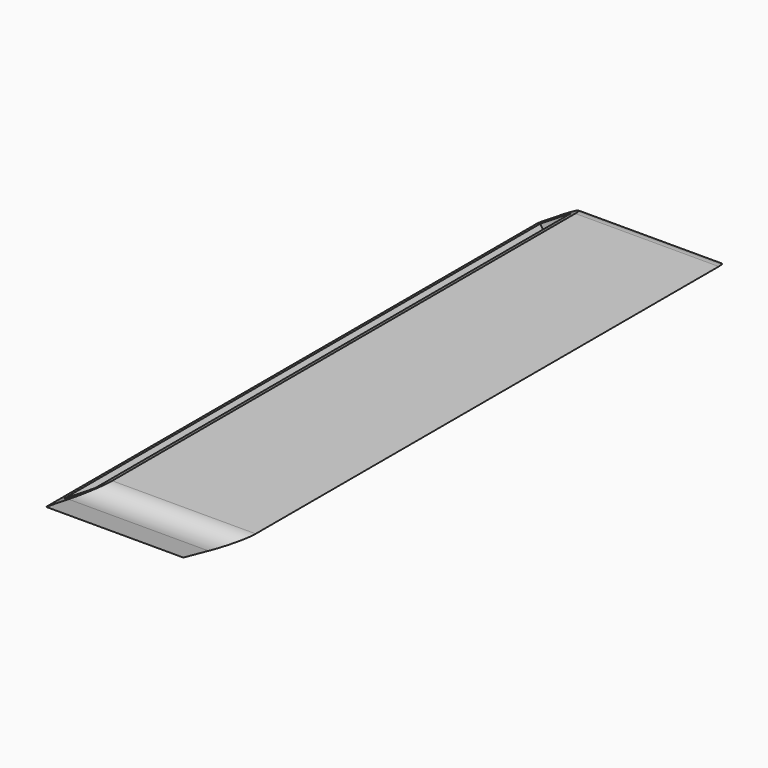
from build123d import *

# Parameters (mm, degrees)
F1_DEPTH = 89.507969
F4_DEPTH = 81.994342
F2_W     = 10.276273
F2_H     = 43.34471
F2_H_2   = 36.187086
F2_H_3   = 36.76717
F2_H_4   = 49.747541
F5_DEPTH = 25.4
F3_R     = 5.08
F6_R     = 5.08


with BuildPart() as f1:
    # F0 (on Front) → F1 (new body)
    with BuildSketch(Plane.XZ):
        Polygon((-8.287296, 9.003021), (-22.663645, 0), (15.585691, 0), (31.694472, 9.003021), align=None)
    extrude(amount=F1_DEPTH)

    # F1_face (on face) → F4 (join)
    with BuildSketch(Plane(origin=(4.138563, 0, 4.534739), x_dir=(1, 0, 0), z_dir=(0, 1, 0))):
        Polygon((-26.802209, 4.534739), (-12.425859, -4.468282), (27.555909, -4.468282), (11.447127, 4.534739), align=None)
    extrude(amount=F4_DEPTH)

    # F2 (on face) → F5 (cut)
    with BuildSketch(Plane(origin=(-6.384331, 0, 10.19473), x_dir=(0.847526, 0, 0.530753), z_dir=(-0.530753, 0, 0.847526))):
        with Locations((-11.1024, 57.859441)):
            Rectangle(F2_W, F2_H)
        with Locations((-11.1024, 18.093543)):
            Rectangle(F2_W, F2_H_2)
        with Locations((-11.1024, -18.383585)):
            Rectangle(F2_W, F2_H_3)
        with Locations((-11.1024, -61.64094)):
            Rectangle(F2_W, F2_H_4)
    extrude(amount=-F5_DEPTH, mode=Mode.SUBTRACT)

    # F3
    f3_edges = [f1.edges().sort_by_distance(p)[0] for p in [
        (11.703588, -89.507969, 9.003021),
    ]]
    fillet(f3_edges, radius=F3_R)

    # F6
    f6_edges = [f1.edges().sort_by_distance(p)[0] for p in [
        (11.703588, 81.994342, 9.003021),
    ]]
    fillet(f6_edges, radius=F6_R)


solid = f1.part
